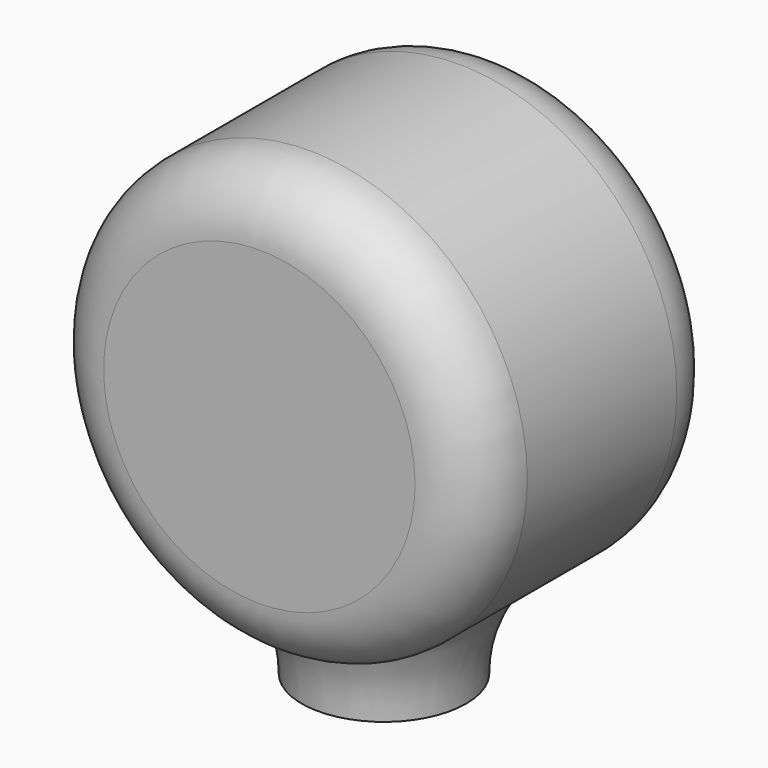
from build123d import *

# Parameters (mm, degrees)
SKETCH_R       = 3.5
PAD_DEPTH      = 2.5
PAD_DEPTH_BACK = 2.5
FILLET_R       = 1
FILLET001_R    = 1


with BuildPart() as part:
    # Sketch → Pad (new body, two sides)
    with BuildSketch(Plane.XZ) as pad_sk:
        Circle(SKETCH_R)
    extrude(amount=PAD_DEPTH)
    extrude(pad_sk.sketch, amount=-PAD_DEPTH_BACK)

    # Fillet
    fillet_edges = [part.edges().sort_by_distance(p)[0] for p in [
        (-3.5, -2.5, 0),
    ]]
    fillet(fillet_edges, radius=FILLET_R)

    # Fillet001
    fillet001_edges = [part.edges().sort_by_distance(p)[0] for p in [
        (-3.5, 2.5, 0),
    ]]
    fillet(fillet001_edges, radius=FILLET001_R)

    # Sketch001 → Revolution (revolve)
    with BuildSketch(Plane.XZ):
        with BuildLine():
            Line((0, -2.5), (2.4, -2.5))
            ThreePointArc((2.4, -2.5), (1.604465, -3.362015), (1.319973, -4.5))
            Line((0, -4.5), (1.319973, -4.5))
            Line((0, -2.5), (0, -4.5))
        make_face()
    revolve(axis=Axis((0, 0, 0), (0, 0, 1)))


solid = part.part
